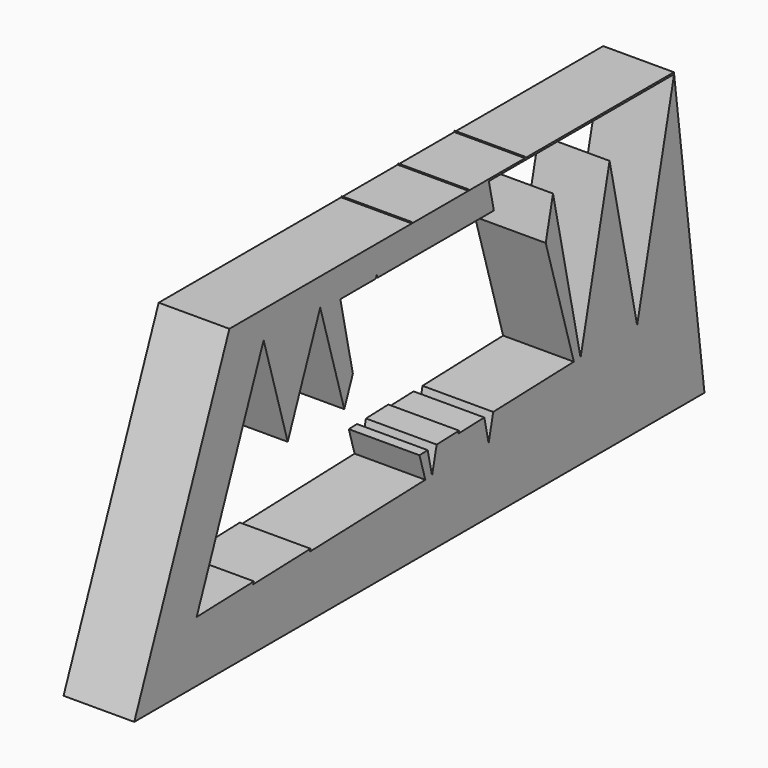
from build123d import *

# Parameters (mm, degrees)
F1_DEPTH = 25.4


with BuildPart() as f1:
    # F0 (on Right) → F1 (new body)
    with BuildSketch(Plane.YZ):
        Polygon((-124.8892247677, 0), (131.1128735542, 0), (117.4014977035, 106.9397048249), (50.7939765855, 106.9397048249), (50.9914357412, 106.2721051276), (59.7225278616, 106.2721051276), (66.685885191, 106.2721051276), (85.122525692, 106.2721051276), (92.0858830214, 106.2721051276), (117.4858808517, 106.2721051276), (100.8892655373, 33.6621142924), (88.5149256122, 90.6492097457), (75.4892677069, 33.6621142924), (63.1149277818, 90.6492097457), (59.8443971499, 76.3406778728), (72.4676400423, 33.6621142924), (36.2745349145, 32.5039319335), (34.2033803463, 23.4426558018), (32.2636590132, 32.3755835728), (20.603351295, 32.0024527609), (20.9322280435, 32.8257788764), (10.8745370841, 32.5039319335), (8.8033825159, 23.4426558018), (6.8636611828, 32.3755835728), (3.1745369637, 32.2575312925), (5.7817548513, 23.4426558018), (-46.082533896, 21.7829942703), (-45.7536571475, 22.6063203858), (-71.4825317264, 21.7829942703), (-71.1536549779, 22.6063203858), (-96.8825295568, 21.7829942703), (-66.8012499809, 97.0899388194), (-55.9951187399, 60.5549403917), (-41.4012521505, 97.0899388194), (-30.5951209096, 60.5549403917), (-26.7470932333, 70.1882808256), (-32.3633551598, 96.052646637), (-16.4155995884, 96.052646637), (-16.0012543201, 97.0899388194), (-15.6944494497, 96.052646637), (-6.9633573294, 96.052646637), (-4.6118619741, 96.052646637), (-0.2630380632, 106.9397048249), (-82.1722724619, 106.9397048249), align=None)
        Polygon((50.9914357412, 106.2721051276), (50.7939765855, 106.9397048249), (50.5369575975, 106.9397048249), (50.2702856025, 106.2721051276), align=None)
        Polygon((50.5369575975, 106.9397048249), (50.7939765855, 106.9397048249), (50.6846308708, 107.30939731), align=None)
        Polygon((-0.11536479, 107.30939731), (-0.2630380632, 106.9397048249), (-0.0060190753, 106.9397048249), align=None)
        Polygon((-0.0060190753, 106.9397048249), (-0.2630380632, 106.9397048249), (-4.6118619741, 96.052646637), (0, 96.052646637), (3.2140982005, 96.052646637), align=None)
        Polygon((50.2702856025, 106.2721051276), (50.5369575975, 106.9397048249), (25.3939787551, 106.9397048249), (28.6140960308, 96.052646637), (36.5416123025, 96.052646637), (34.3225300312, 106.2721051276), align=None)
        Polygon((25.1369597672, 106.9397048249), (-0.0060190753, 106.9397048249), (3.2140982005, 96.052646637), (18.436640501, 96.052646637), (20.7881358563, 96.052646637), align=None)
        Polygon((28.6140960308, 96.052646637), (25.3939787551, 106.9397048249), (25.1369597672, 106.9397048249), (20.7881358563, 96.052646637), (25.3999978304, 96.052646637), align=None)
        Polygon((25.1369597672, 106.9397048249), (25.3939787551, 106.9397048249), (25.2846330404, 107.30939731), align=None)
    extrude(amount=F1_DEPTH)


solid = f1.part
